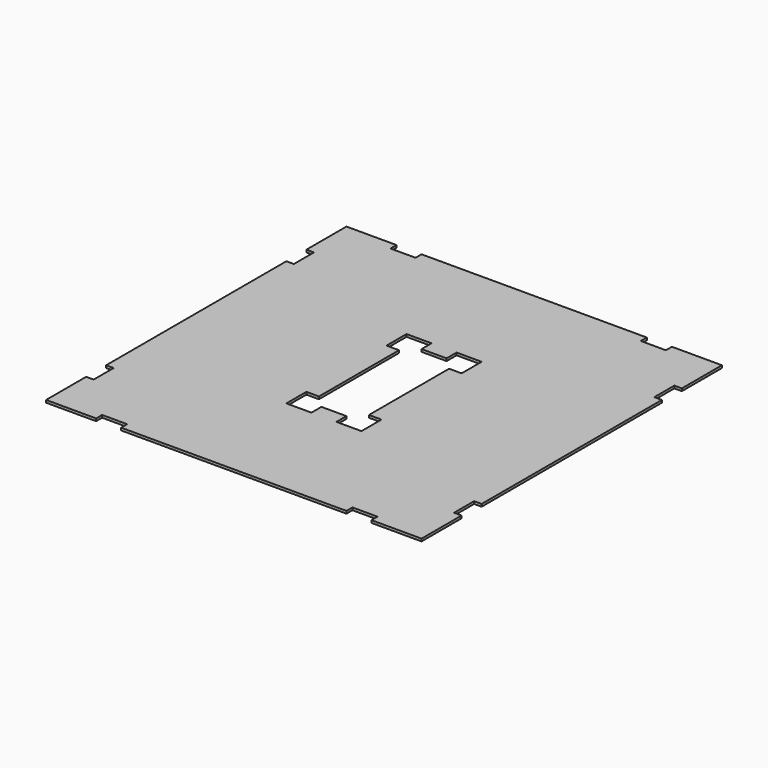
from build123d import *

# Parameters (mm, degrees)
F1_DEPTH = 25.4


with BuildPart() as f1:
    # F0 (on Top) → F1 (new body)
    with BuildSketch(Plane.XY):
        Polygon((1905, 1397), (1905, 1905), (1397, 1905), (1397, 1828.8), (1143, 1828.8), (1143, 1905), (-1143, 1905), (-1143, 1828.8), (-1397, 1828.8), (-1397, 1905), (-1905, 1905), (-1905, 1397), (-1828.8, 1397), (-1828.8, 1143), (-1905, 1143), (-1905, -1143), (-1828.8, -1143), (-1828.8, -1397), (-1905, -1397), (-1905, -1905), (-1397, -1905), (-1397, -1828.8), (-1143, -1828.8), (-1143, -1905), (1143, -1905), (1143, -1828.8), (1397, -1828.8), (1397, -1905), (1905, -1905), (1905, -1397), (1828.8, -1397), (1828.8, -1143), (1905, -1143), (1905, 1143), (1828.8, 1143), (1828.8, 1397), align=None)
        Polygon((-381, 762), (-127, 762), (-127, 635), (127, 635), (127, 762), (381, 762), (381, 508), (254, 508), (254, -508), (381, -508), (381, -762), (127, -762), (127, -635), (-127, -635), (-127, -762), (-381, -762), (-381, -508), (-254, -508), (-254, 508), (-381, 508), align=None, mode=Mode.SUBTRACT)
    extrude(amount=F1_DEPTH)


solid = f1.part
